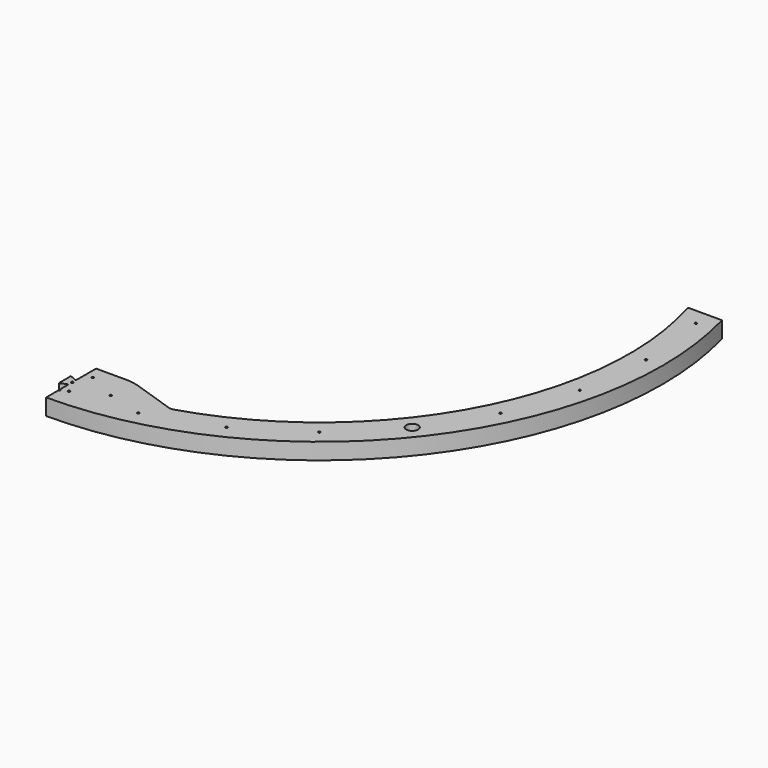
from build123d import *

# Parameters (mm, degrees)
F1_DEPTH  = 11
F2_R      = 28.523991
F3_R      = 5
F5_R      = 0.75
F6_DEPTH  = 11.001
F7_R      = 4
F8_DEPTH  = 11.001
F10_DEPTH = 11.001


with BuildPart() as f1:
    # F0 (on Top) → F1 (new body)
    with BuildSketch(Plane.XY):
        with BuildLine():
            ThreePointArc((-59.119348, -199.42142), (-183.034682, -98.804378), (-199.158229, 60))
            Line((-199.158229, 60), (-222.036033, 60))
            ThreePointArc((-222.036033, 60), (0, -230), (222.036033, 60))
            Line((222.036033, 60), (199.158229, 60))
            ThreePointArc((199.158229, 60), (183.034682, -98.804378), (59.119348, -199.42142))
            Line((59.119348, -199.42142), (25, -188))
            Line((25, -188), (0, -188))
            Line((0, -188), (-25, -188))
            Line((-25, -188), (-59.119348, -199.42142))
        make_face()
    extrude(amount=F1_DEPTH)

    # F2
    f2_edges = [f1.edges().sort_by_distance(p)[0] for p in [
        (25, -188, 5.5),
        (-25, -188, 5.5),
    ]]
    fillet(f2_edges, radius=F2_R)

    # F3
    f3_edges = [f1.edges().sort_by_distance(p)[0] for p in [
        (59.119348, -199.42142, 5.5),
        (-59.119348, -199.42142, 5.5),
    ]]
    fillet(f3_edges, radius=F3_R)

    # F5 (on face) → F6 (cut, through all)
    with BuildSketch(Plane.XY.offset(11)):
        with Locations((0, -219)):
            Circle(F5_R)
        with Locations((48.732085, -213.509213)):
            Circle(F5_R)
        with Locations((95.020539, -197.312182)):
            Circle(F5_R)
        with Locations((136.544267, -171.221095)):
            Circle(F5_R)
        with Locations((171.221095, -136.544267)):
            Circle(F5_R)
        with Locations((197.312182, -95.020539)):
            Circle(F5_R)
        with Locations((213.509213, -48.732085)):
            Circle(F5_R)
        with Locations((219, 0)):
            Circle(F5_R)
        with Locations((213.509213, 48.732085)):
            Circle(F5_R)
        with Locations((197.312182, 95.020539)):
            Circle(F5_R)
        with Locations((171.221095, 136.544267)):
            Circle(F5_R)
        with Locations((136.544267, 171.221095)):
            Circle(F5_R)
        with Locations((95.020539, 197.312182)):
            Circle(F5_R)
        with Locations((48.732085, 213.509213)):
            Circle(F5_R)
        with Locations((0, 219)):
            Circle(F5_R)
        with Locations((-48.732085, 213.509213)):
            Circle(F5_R)
        with Locations((-95.020539, 197.312182)):
            Circle(F5_R)
        with Locations((-136.544267, 171.221095)):
            Circle(F5_R)
        with Locations((-171.221095, 136.544267)):
            Circle(F5_R)
        with Locations((-197.312182, 95.020539)):
            Circle(F5_R)
        with Locations((-213.509213, 48.732085)):
            Circle(F5_R)
        with Locations((-219, 0)):
            Circle(F5_R)
        with Locations((-213.509213, -48.732085)):
            Circle(F5_R)
        with Locations((-197.312182, -95.020539)):
            Circle(F5_R)
        with Locations((-171.221095, -136.544267)):
            Circle(F5_R)
        with Locations((-136.544267, -171.221095)):
            Circle(F5_R)
        with Locations((-95.020539, -197.312182)):
            Circle(F5_R)
        with Locations((-48.732085, -213.509213)):
            Circle(F5_R)
        with Locations((-5, -197)):
            Circle(F5_R)
        with Locations((5, -197)):
            Circle(F5_R)
        with Locations((0, -208)):
            Circle(F5_R)
        with Locations((-5, -217)):
            Circle(F5_R)
        with Locations((-25, -207)):
            Circle(F5_R)
        with Locations((5, -217)):
            Circle(F5_R)
        with Locations((25, -207)):
            Circle(F5_R)
    extrude(amount=-F6_DEPTH, mode=Mode.SUBTRACT)

    # F7 (on face) → F8 (cut, through all)
    with BuildSketch(Plane.XY.offset(11)):
        with Locations((-171.221095, -136.544267)):
            Circle(F7_R)
        with Locations((171.221095, -136.544267)):
            Circle(F7_R)
    extrude(amount=-F8_DEPTH, mode=Mode.SUBTRACT)

    # F9 (on face) → F10 (cut, through all)
    with BuildSketch(Plane.XY.offset(11)):
        Polygon((0, -205), (0, -188), (0, 106.196139), (-257.946059, 106.196139), (-257.946059, -251.474887), (0, -251.474887), (0, -211), (-5, -213.082092), (-5, -202.917908), align=None)
    extrude(amount=-F10_DEPTH, mode=Mode.SUBTRACT)


solid = f1.part
